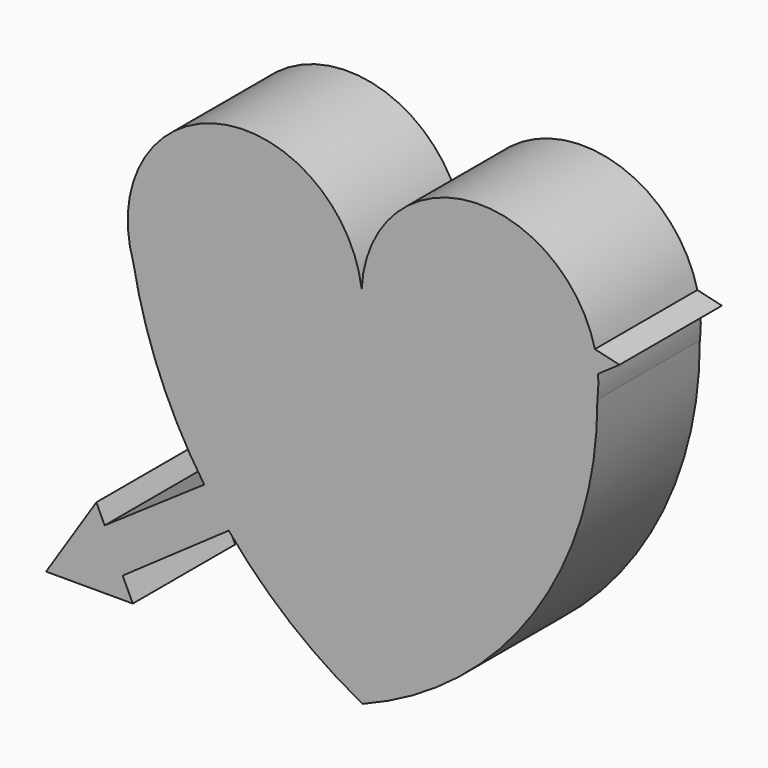
from build123d import *

# Parameters (mm, degrees)
F1_DEPTH = 41.402


with BuildPart() as f1:
    # F0 (on Front) → F1 (new body)
    with BuildSketch(Plane.XZ):
        with BuildLine():
            ThreePointArc((75.1228820371, 48.9039570062), (34.1762870658, 77.8326985655), (-0.2809159214, 41.4157122781))
            ThreePointArc((-0.2809159214, 41.4157122781), (-46.2709688412, 73.563464421), (-74.0795194682, 24.826954006))
            ThreePointArc((-74.0795194682, 24.826954006), (-65.5728464614, -4.1694705516), (-51.2008829791, -30.7514717635))
            Line((-51.2008829791, -30.7514717635), (67.5562396646, 50.6325848401))
            Line((67.5562396646, 50.6325848401), (75.1299743215, 48.8751346441))
            ThreePointArc((75.1299743215, 48.8751346441), (75.1264309732, 48.8895465126), (75.1228820371, 48.9039570062))
        make_face()
        with BuildLine():
            ThreePointArc((-0.2809159214, 41.4157122781), (0.0029369916, 38.1261326209), (0, 34.8243303597))
            ThreePointArc((0, 34.8243303597), (-0.2827353132, 38.1139576476), (-0.2809159214, 41.4157122781))
        make_face(mode=Mode.SUBTRACT)
        with BuildLine():
            Line((76.1561413802, 42.2016797322), (-43.2762784182, -41.251971987))
            ThreePointArc((-43.2762784182, -41.251971987), (-23.3626724613, -60.993443781), (0, -76.5003114939))
            ThreePointArc((0, -76.5003114939), (55.3094137042, -32.6701874089), (75.9176909924, 34.8243303597))
            ThreePointArc((75.9176909924, 34.8243303597), (76.2151624703, 38.5072437767), (76.1561413802, 42.2016797322))
        make_face()
        with BuildLine():
            Line((67.5562396646, 50.6325848401), (-51.2008829791, -30.7514717635))
            ThreePointArc((-51.2008829791, -30.7514717635), (-47.3585805653, -36.0922843694), (-43.2762784182, -41.251971987))
            Line((-43.2762784182, -41.251971987), (76.1561413802, 42.2016797322))
            ThreePointArc((76.1561413802, 42.2016797322), (75.7904937673, 45.5610781858), (75.1299743215, 48.8751346441))
            Line((75.1299743215, 48.8751346441), (67.5562396646, 50.6325848401))
        make_face()
        with BuildLine():
            ThreePointArc((-43.2762784182, -41.251971987), (-47.3585805653, -36.0922843694), (-51.2008829791, -30.7514717635))
            Line((-51.2008829791, -30.7514717635), (-83.3833487633, -52.8060614902))
            Line((-83.3833487633, -52.8060614902), (-77.5503959743, -65.2010829096))
            Line((-77.5503959743, -65.2010829096), (-43.2762784182, -41.251971987))
        make_face()
        Polygon((-77.5503959743, -65.2010829096), (-83.3833487633, -52.8060614902), (-86.0659182072, -47.1056029201), (-102.3268178105, -72.1223726869), (-74.2933175762, -72.1223726869), align=None)
        with BuildLine():
            Line((83.0699306878, 47.0327043895), (75.1299743215, 48.8751346441))
            ThreePointArc((75.1299743215, 48.8751346441), (75.7904937673, 45.5610781858), (76.1561413802, 42.2016797322))
            Line((76.1561413802, 42.2016797322), (83.0699306878, 47.0327043895))
        make_face()
        with BuildLine():
            ThreePointArc((-0.2809159214, 41.4157122781), (-0.2827353132, 38.1139576476), (0, 34.8243303597))
            ThreePointArc((0, 34.8243303597), (0.0029369916, 38.1261326209), (-0.2809159214, 41.4157122781))
        make_face()
        with BuildLine():
            Line((83.0699306878, 47.0327043895), (75.1228820371, 48.9039570062))
            ThreePointArc((75.1228820371, 48.9039570062), (75.1264309732, 48.8895465126), (75.1299743215, 48.8751346441))
            Line((75.1299743215, 48.8751346441), (83.0699306878, 47.0327043895))
        make_face()
    extrude(amount=F1_DEPTH)


solid = f1.part
